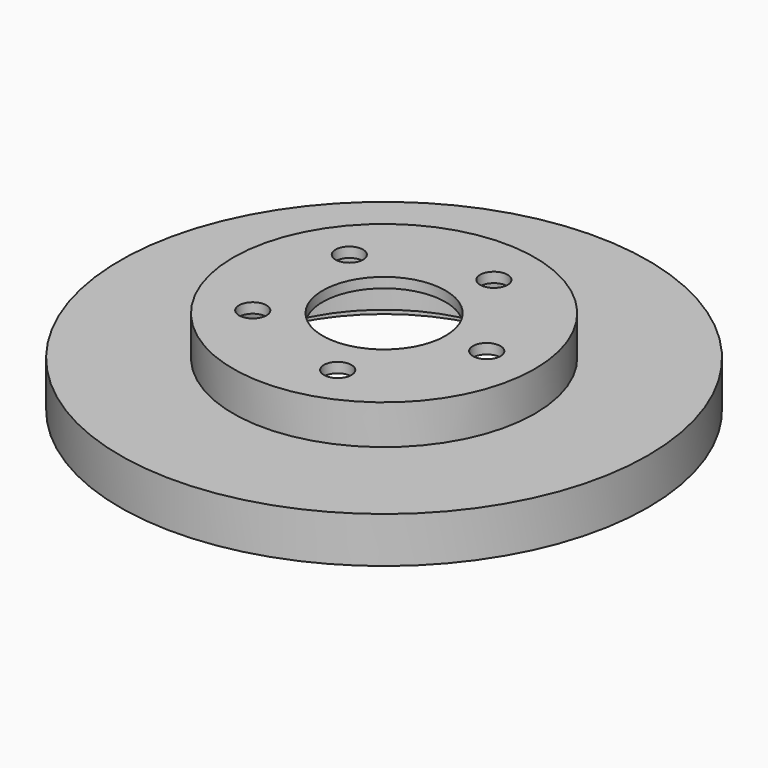
from build123d import *

# Parameters (mm, degrees)
F0_R     = 144
F1_DEPTH = 25
F2_R     = 82.3
F3_DEPTH = 21.5
F4_R     = 77.15
F5_DEPTH = 41
F6_R     = 88.5
F7_DEPTH = 8
F8_R     = 33.5
F8_R_2   = 7.5
F9_DEPTH = 25


with BuildPart() as f1:
    # F0 (on Top) → F1 (new body)
    with BuildSketch(Plane.XY):
        Circle(F0_R)
    extrude(amount=F1_DEPTH)

    # F2 (on face) → F3 (join)
    with BuildSketch(Plane.XY.offset(25)):
        Circle(F2_R)
    extrude(amount=F3_DEPTH)

    # F4 (on face) → F5 (cut)
    with BuildSketch(Plane(origin=(0, 0, 0), x_dir=(1, 0, 0), z_dir=(0, 0, -1))):
        Circle(F4_R)
    extrude(amount=-F5_DEPTH, mode=Mode.SUBTRACT)

    # F6 (on face) → F7 (cut)
    with BuildSketch(Plane(origin=(0, 0, 0), x_dir=(1, 0, 0), z_dir=(0, 0, -1))):
        Circle(F6_R)
    extrude(amount=-F7_DEPTH, mode=Mode.SUBTRACT)

    # F8 (on face) → F9 (cut)
    with BuildSketch(Plane.XY.offset(46.5)):
        Circle(F8_R)
        with Locations((56, 0)):
            Circle(F8_R_2)
        with Locations((17.304952, 53.259165)):
            Circle(F8_R_2)
        with Locations((-45.304952, 32.915974)):
            Circle(F8_R_2)
        with Locations((-45.304952, -32.915974)):
            Circle(F8_R_2)
        with Locations((17.304952, -53.259165)):
            Circle(F8_R_2)
    extrude(amount=-F9_DEPTH, mode=Mode.SUBTRACT)


solid = f1.part
